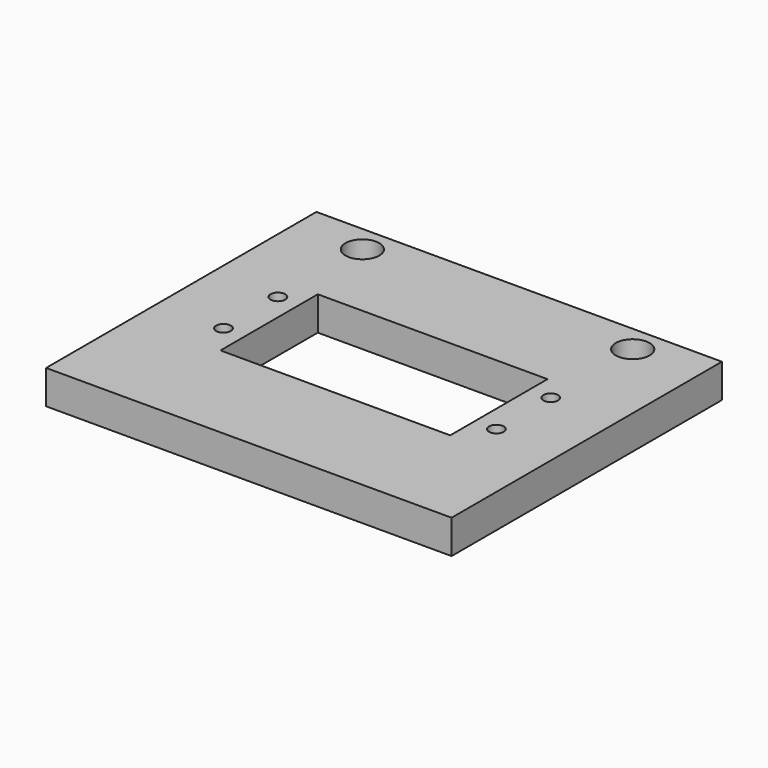
from build123d import *

# Parameters (mm, degrees)
F0_W     = 76.2
F0_H     = 63.5
F0_R     = 1.3843
F0_R_2   = 3.175
F0_R_3   = 1.389063
F1_DEPTH = 6.35


with BuildPart() as f1:
    # F0 (on Top) → F1 (new body)
    with BuildSketch(Plane.XY):
        with Locations((21.59, -11.43)):
            Rectangle(F0_W, F0_H)
        with Locations((-4.0513, -17.087596)):
            Circle(F0_R, mode=Mode.SUBTRACT)
        with Locations((47.229148, -17.087596)):
            Circle(F0_R, mode=Mode.SUBTRACT)
        with Locations((-4.0513, -4.314228)):
            Circle(F0_R, mode=Mode.SUBTRACT)
        with Locations((-3.81, 15.24)):
            Circle(F0_R_2, mode=Mode.SUBTRACT)
        Polygon((0, -22.86), (0, 0), (43.171477, 0), (43.18, -22.86), align=None, mode=Mode.SUBTRACT)
        with Locations((47.229148, -4.314228)):
            Circle(F0_R_3, mode=Mode.SUBTRACT)
        with Locations((46.99, 15.24)):
            Circle(F0_R_2, mode=Mode.SUBTRACT)
    extrude(amount=F1_DEPTH)


solid = f1.part
